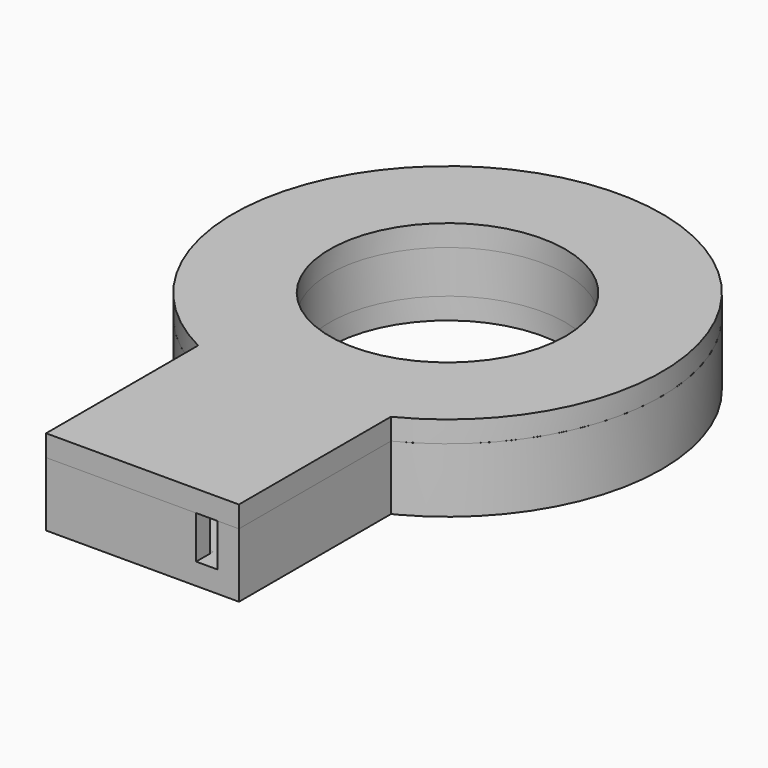
from build123d import *

# Parameters (mm, degrees)
SKETCH_R             = 20
PAD_DEPTH            = 30
SKETCH001_R          = 18
POCKET_DEPTH         = 40
SKETCH002_W          = 40
SKETCH002_H          = 26
POCKET001_DEPTH      = 20.001
POCKET001_DEPTH_BACK = 20.001
SKETCH014_W          = 14
SKETCH014_H          = 7.569522
POCKET010_DEPTH      = 6
SKETCH005_R          = 13
PAD002_DEPTH         = 30
SKETCH006_W          = 40
SKETCH006_H          = 26
POCKET003_DEPTH      = 13.001
POCKET003_DEPTH_BACK = 13.001
SKETCH007_R          = 11
POCKET004_DEPTH      = 6.001
SKETCH003_R          = 18
PAD001_DEPTH         = 30
SKETCH004_W          = 40
SKETCH004_H          = 30
POCKET002_DEPTH      = 18.001
POCKET002_DEPTH_BACK = 18.001
SKETCH008_R          = 11
POCKET005_DEPTH      = 2.001
SKETCH009_W          = 18
SKETCH009_H          = 20
PAD003_DEPTH         = 9
SKETCH010_W          = 14
SKETCH010_H          = 17
POCKET006_DEPTH      = 7
SKETCH011_W          = 40
SKETCH011_H          = 26
POCKET007_DEPTH      = 21
SKETCH012_W          = 14
SKETCH012_H          = 7.424547
POCKET008_DEPTH      = 19
SKETCH013_R          = 18
POCKET009_DEPTH      = 7
SKETCH021_W          = 2
SKETCH021_H          = 8
POCKET015_DEPTH      = 5
SKETCH015_W          = 40
SKETCH015_H          = 26
PAD004_DEPTH         = 36
SKETCH016_W          = 40
SKETCH016_H          = 26
POCKET011_DEPTH      = 36
SKETCH017_R          = 11
POCKET012_DEPTH      = 8.001
POCKET013_DEPTH      = 25
SKETCH019_W          = 20
SKETCH019_H          = 5
POCKET014_DEPTH      = 15
PAD005_DEPTH         = 1.5


with BuildPart() as base_cylinder_external:
    # Sketch → Pad (new body)
    with BuildSketch(Plane.XY):
        Circle(SKETCH_R)
    extrude(amount=PAD_DEPTH)

    # Sketch001 → Pocket (cut)
    with BuildSketch(Plane.XY):
        Circle(SKETCH001_R)
    extrude(amount=POCKET_DEPTH, mode=Mode.SUBTRACT)

    # Sketch002 → Pocket001 (cut, two sides)
    with BuildSketch(Plane.XZ) as pocket001_sk:
        with Locations((0, 19)):
            Rectangle(SKETCH002_W, SKETCH002_H)
    extrude(amount=-POCKET001_DEPTH, mode=Mode.SUBTRACT)
    extrude(pocket001_sk.sketch, amount=POCKET001_DEPTH_BACK, mode=Mode.SUBTRACT)

    # Sketch014 → Pocket010 (cut)
    with BuildSketch(Plane.XZ.offset(22)):
        with Locations((0, 5.784761)):
            Rectangle(SKETCH014_W, SKETCH014_H)
    extrude(amount=-POCKET010_DEPTH, mode=Mode.SUBTRACT)


with BuildPart() as base_cylinder_internal:
    # Sketch005 → Pad002 (new body)
    with BuildSketch(Plane.XY):
        Circle(SKETCH005_R)
    extrude(amount=PAD002_DEPTH)

    # Sketch006 → Pocket003 (cut, two sides)
    with BuildSketch(Plane.XZ) as pocket003_sk:
        with Locations((0, 19)):
            Rectangle(SKETCH006_W, SKETCH006_H)
    extrude(amount=-POCKET003_DEPTH, mode=Mode.SUBTRACT)
    extrude(pocket003_sk.sketch, amount=POCKET003_DEPTH_BACK, mode=Mode.SUBTRACT)

    # Sketch007 → Pocket004 (cut, through all)
    with BuildSketch(Plane.XY):
        Circle(SKETCH007_R)
    extrude(amount=POCKET004_DEPTH, mode=Mode.SUBTRACT)


with BuildPart() as base_cylinder_intermediate:
    # Sketch003 → Pad001 (new body)
    with BuildSketch(Plane.XY):
        Circle(SKETCH003_R)
    extrude(amount=PAD001_DEPTH)

    # Sketch004 → Pocket002 (cut, two sides)
    with BuildSketch(Plane.XZ) as pocket002_sk:
        with Locations((0, 17)):
            Rectangle(SKETCH004_W, SKETCH004_H)
    extrude(amount=-POCKET002_DEPTH, mode=Mode.SUBTRACT)
    extrude(pocket002_sk.sketch, amount=POCKET002_DEPTH_BACK, mode=Mode.SUBTRACT)

    # Sketch008 → Pocket005 (cut, through all)
    with BuildSketch(Plane.XY):
        Circle(SKETCH008_R)
    extrude(amount=POCKET005_DEPTH, mode=Mode.SUBTRACT)


with BuildPart() as base_box:
    # Sketch009 → Pad003 (new body)
    with BuildSketch(Plane.XY):
        with Locations((0, -25.588457)):
            Rectangle(SKETCH009_W, SKETCH009_H)
    extrude(amount=PAD003_DEPTH)

    # Sketch010 → Pocket006 (cut)
    with BuildSketch(Plane.XY.offset(2)):
        with Locations((0, -25.083124)):
            Rectangle(SKETCH010_W, SKETCH010_H)
    extrude(amount=POCKET006_DEPTH, mode=Mode.SUBTRACT)

    # Sketch011 → Pocket007 (cut)
    with BuildSketch(Plane.XZ.offset(15)):
        with Locations((0, 19)):
            Rectangle(SKETCH011_W, SKETCH011_H)
    extrude(amount=POCKET007_DEPTH, mode=Mode.SUBTRACT)

    # Sketch012 → Pocket008 (cut)
    with BuildSketch(Plane.XZ.offset(15)):
        with Locations((0, 5.712274)):
            Rectangle(SKETCH012_W, SKETCH012_H)
    extrude(amount=POCKET008_DEPTH, mode=Mode.SUBTRACT)

    # Sketch013 → Pocket009 (cut)
    with BuildSketch(Plane.XY.offset(9)):
        Circle(SKETCH013_R)
    extrude(amount=-POCKET009_DEPTH, mode=Mode.SUBTRACT)

    # Sketch021 → Pocket015 (cut)
    with BuildSketch(Plane.XZ.offset(37)):
        with Locations((6, 6)):
            Rectangle(SKETCH021_W, SKETCH021_H)
    extrude(amount=-POCKET015_DEPTH, mode=Mode.SUBTRACT)


with BuildPart() as top:
    # Sketch015 → Pad004 (new body, symmetric)
    with BuildSketch(Plane.XZ):
        with Locations((0, 19)):
            Rectangle(SKETCH015_W, SKETCH015_H)
    extrude(amount=PAD004_DEPTH, both=True)

    # Sketch016 → Pocket011 (cut, symmetric)
    with BuildSketch(Plane.XZ):
        with Locations((0, 21)):
            Rectangle(SKETCH016_W, SKETCH016_H)
    extrude(amount=POCKET011_DEPTH, both=True, mode=Mode.SUBTRACT)

    # Sketch017 → Pocket012 (cut, through all)
    with BuildSketch(Plane.XY):
        Circle(SKETCH017_R)
    extrude(amount=POCKET012_DEPTH, mode=Mode.SUBTRACT)

    # Sketch018 → Pocket013 (cut)
    with BuildSketch(Plane.XY):
        with BuildLine():
            Line((9, -38.955163), (9, -17.860571))
            ThreePointArc((9, -17.860571), (0, 20), (-9, -17.860571))
            Line((-9, -38.955163), (-9, -17.860571))
            Line((-9, -38.955163), (-27, -38.955163))
            Line((-27, -38.955163), (-27, 41.044837))
            Line((-27, 41.044837), (27, 41.044837))
            Line((27, 41.044837), (27, -38.955163))
            Line((27, -38.955163), (9, -38.955163))
        make_face()
    extrude(amount=POCKET013_DEPTH, mode=Mode.SUBTRACT)

    # Sketch019 → Pocket014 (cut)
    with BuildSketch(Plane.XY):
        with Locations((0, -38.1)):
            Rectangle(SKETCH019_W, SKETCH019_H)
    extrude(amount=POCKET014_DEPTH, mode=Mode.SUBTRACT)

    # Sketch020 → Pad005 (join)
    with BuildSketch(Plane.XY.offset(7)):
        Polygon((-6.8, -20.975668), (-6.8, -33.5), (6.8, -33.5), (6.8, -20.975668), (5.8, -20.975668), (5.8, -32.5), (-5.8, -32.5), (-5.8, -20.975668), align=None)
    extrude(amount=-PAD005_DEPTH)


solid = Compound([base_cylinder_external.part, base_cylinder_internal.part, base_cylinder_intermediate.part, base_box.part, top.part])
